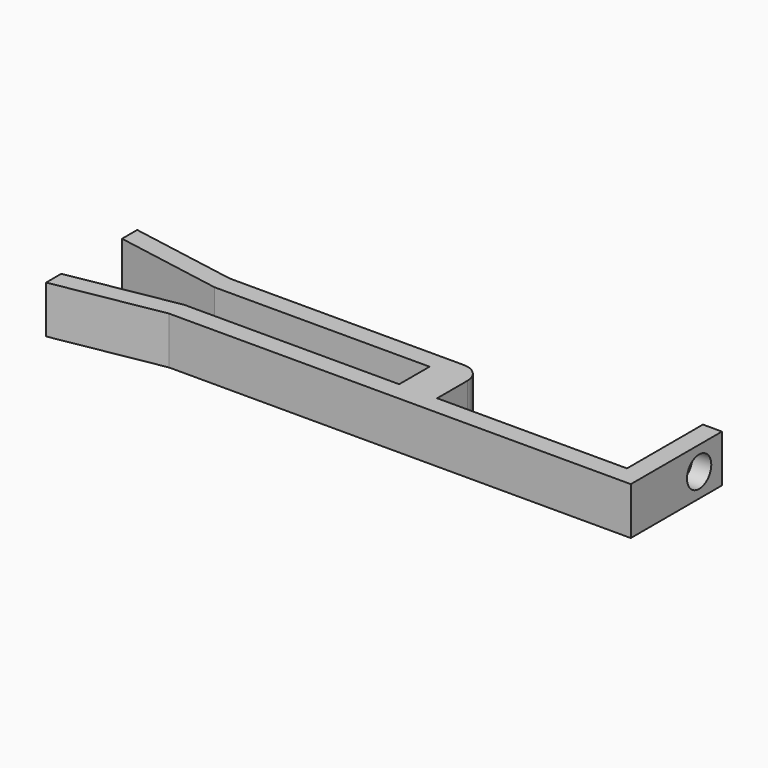
from build123d import *

# Parameters (mm, degrees)
F1_DEPTH = 5
F2_R     = 1.6
F3_DEPTH = 3
F4_R     = 2


with BuildPart() as f1:
    # F0 (on Top) → F1 (new body)
    with BuildSketch(Plane.XY):
        Polygon((-48.657436, 0), (0, 0), (0, 12), (-2, 12), (-2, 2), (-22, 2), (-22, 8), (-48.657436, 8), (-60, 10), (-60, 8), (-48.657436, 6), (-26, 6), (-26, 2), (-48.657436, 2), (-60, 0), (-60, -2), align=None)
    extrude(amount=F1_DEPTH)

    # F2 (on face) → F3 (cut)
    with BuildSketch(Plane.YZ):
        with Locations((9, 2.5)):
            Circle(F2_R)
    extrude(amount=-F3_DEPTH, mode=Mode.SUBTRACT)

    # F4
    f4_edges = [f1.edges().sort_by_distance(p)[0] for p in [
        (-22, 8, 2.5),
    ]]
    fillet(f4_edges, radius=F4_R)


solid = f1.part
